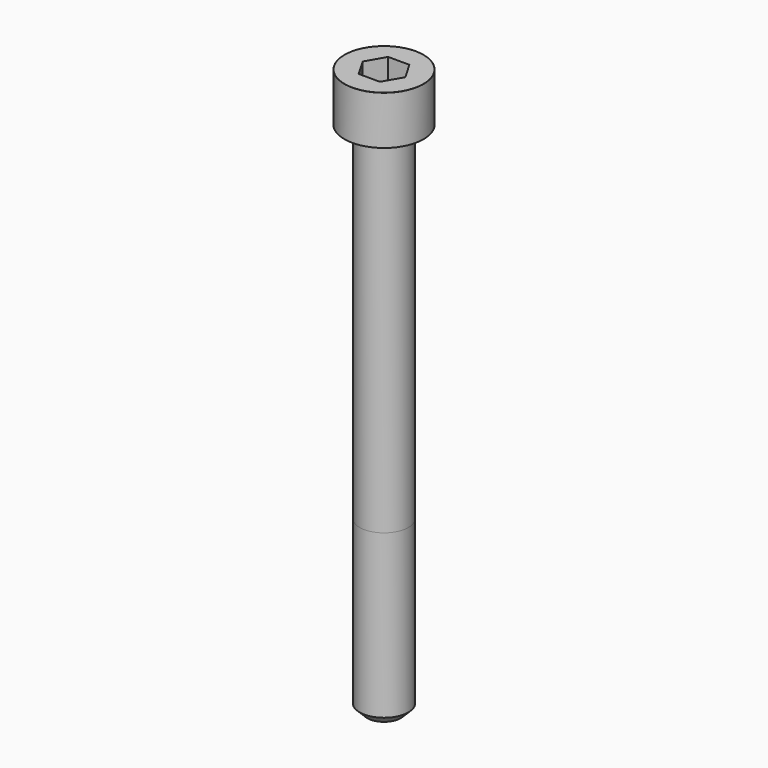
from build123d import *

# Parameters (mm, degrees)
POCKET_DEPTH = 6.06


with BuildPart() as part:
    # Sketch → Revolve (revolve)
    with BuildSketch(Plane.YZ):
        with BuildLine():
            Line((3.999, 0), (6.5, 0))
            Line((6.5, 0), (6.5, 7.97229))
            ThreePointArc((6.5, 7.97229), (6.491884, 7.991884), (6.47229, 8))
            Line((6.47229, 8), (0, 8))
            Line((0, -85), (0, 8))
            Line((2.75, -85), (0, -85))
            Line((4, -83.75), (2.75, -85))
            Line((4, -57), (4, -83.75))
            Line((3.999, 0), (4, -57))
        make_face()
    revolve(axis=Axis((0, 0, 0), (0, 0, 1)))

    # Sketch001 → Pocket (cut)
    with BuildSketch(Plane.XY.offset(8)):
        Polygon((3.498743, 0), (1.749371, 3.03), (-1.749371, 3.03), (-3.498743, 0), (-1.749371, -3.03), (1.749371, -3.03), align=None)
    extrude(amount=-POCKET_DEPTH, mode=Mode.SUBTRACT)


solid = part.part
